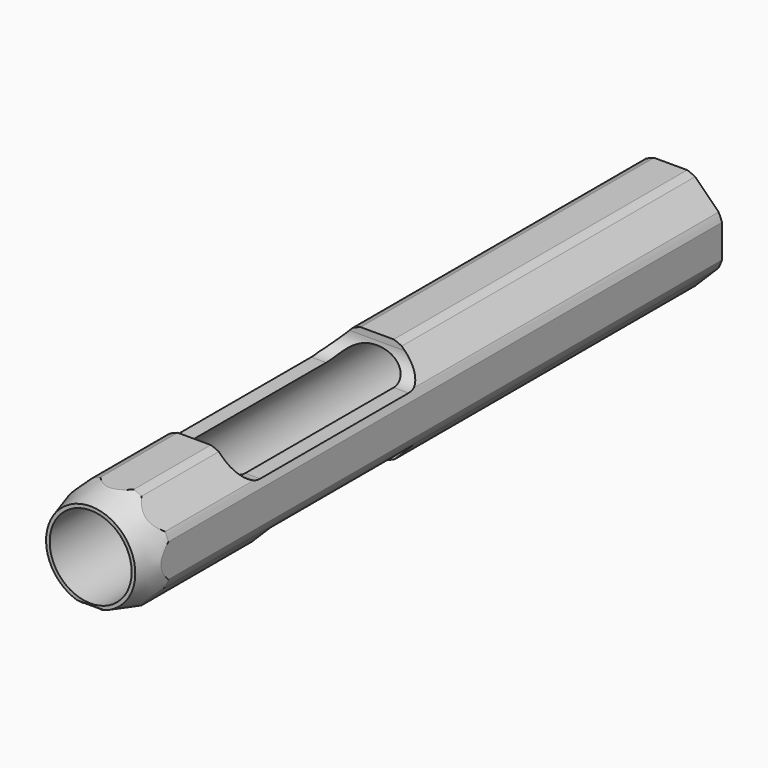
from build123d import *

# Parameters (mm, degrees)
F0_R      = 9.5
F1_DEPTH  = 84
F3_DEPTH  = 12.5
F5_DEPTH  = 12.5
F7_W      = 4
F7_H      = 3.791283
F8_DEPTH  = 50.14
F10_DEPTH = 39.6
F12_DEPTH = 12.5


with BuildPart() as f1:
    # F0 (on Front) → F1 (new body, symmetric)
    with BuildSketch(Plane.XZ):
        with BuildLine():
            Line((-11.895642, 3.839754), (-11.895642, -3.839754))
            ThreePointArc((-11.895642, -3.839754), (-11.548494, -4.783543), (-11.126605, -5.696373))
            Line((-11.126605, -5.696373), (-5.696373, -11.126605))
            ThreePointArc((-5.696373, -11.126605), (-4.783543, -11.548494), (-3.839754, -11.895642))
            Line((-3.839754, -11.895642), (3.839754, -11.895642))
            ThreePointArc((3.839754, -11.895642), (4.783543, -11.548494), (5.696373, -11.126605))
            Line((5.696373, -11.126605), (11.126605, -5.696373))
            ThreePointArc((11.126605, -5.696373), (11.548494, -4.783543), (11.895642, -3.839754))
            Line((11.895642, -3.839754), (11.895642, 3.839754))
            ThreePointArc((11.895642, 3.839754), (11.548494, 4.783543), (11.126605, 5.696373))
            Line((11.126605, 5.696373), (5.696373, 11.126605))
            ThreePointArc((5.696373, 11.126605), (4.783543, 11.548494), (3.839754, 11.895642))
            Line((3.839754, 11.895642), (-3.839754, 11.895642))
            ThreePointArc((-3.839754, 11.895642), (-4.783543, 11.548494), (-5.696373, 11.126605))
            Line((-5.696373, 11.126605), (-11.126605, 5.696373))
            ThreePointArc((-11.126605, 5.696373), (-11.548494, 4.783543), (-11.895642, 3.839754))
        make_face()
        Circle(F0_R, mode=Mode.SUBTRACT)
    extrude(amount=F1_DEPTH, both=True)

    # F2 (on Right) → F3 (cut, symmetric)
    with BuildSketch(Plane.YZ):
        with BuildLine():
            Line((-1, 23.303589), (-54, 23.303589))
            Line((-54, 23.303589), (-54, 10.395642))
            ThreePointArc((-54, 10.395642), (-52.535534, 6.860108), (-49, 5.395642))
            Line((-49, 5.395642), (-6, 5.395642))
            ThreePointArc((-6, 5.395642), (-2.464466, 6.860108), (-1, 10.395642))
            Line((-1, 10.395642), (-1, 23.303589))
        make_face()
    extrude(amount=F3_DEPTH, both=True, mode=Mode.SUBTRACT)

    # F4 (on Right) → F5 (cut, symmetric)
    with BuildSketch(Plane.YZ):
        Polygon((-44.4, -6.895642), (-44.4, -11.895642), (-44.4, -23.509938), (-3, -23.509938), (-3, -6.895642), align=None)
    extrude(amount=F5_DEPTH, both=True, mode=Mode.SUBTRACT)

    # F7 (on offset) → F8 (cut)
    with BuildSketch(Plane.XZ.offset(84)):
        with Locations((0, -11.895641)):
            Rectangle(F7_W, F7_H)
    extrude(amount=-F8_DEPTH, mode=Mode.SUBTRACT)

    # F9 (on offset) → F10 (join, through all)
    with BuildSketch(Plane.XZ.offset(84)):
        with BuildLine():
            Line((-2, -11.895642), (-3.839754, -11.895642))
            ThreePointArc((-3.839754, -11.895642), (-2.928278, -12.152168), (-2, -12.338963))
            Line((-2, -12.338963), (-2, -11.895642))
        make_face()
        with BuildLine():
            Line((3.839754, -11.895642), (2, -11.895642))
            Line((2, -11.895642), (2, -12.338963))
            ThreePointArc((2, -12.338963), (2.928278, -12.152168), (3.839754, -11.895642))
        make_face()
    extrude(amount=-F10_DEPTH)

    # F11 (on Right) → F12 (cut, symmetric)
    with BuildSketch(Plane.YZ):
        Polygon((-84, -9.838963), (-84, -12.338963), (-81.5, -12.338963), align=None)
    extrude(amount=F12_DEPTH, both=True, mode=Mode.SUBTRACT)

    # F13 (on Right) → F14 (revolve, cut)
    with BuildSketch(Plane.YZ):
        Polygon((-86.791411, -19.086694), (-67.18528, -15.093563), (-84, -10.338963), align=None)
    revolve(axis=Axis((0, -51.056053, 0), (0, -1, 0)), mode=Mode.SUBTRACT)


solid = f1.part
